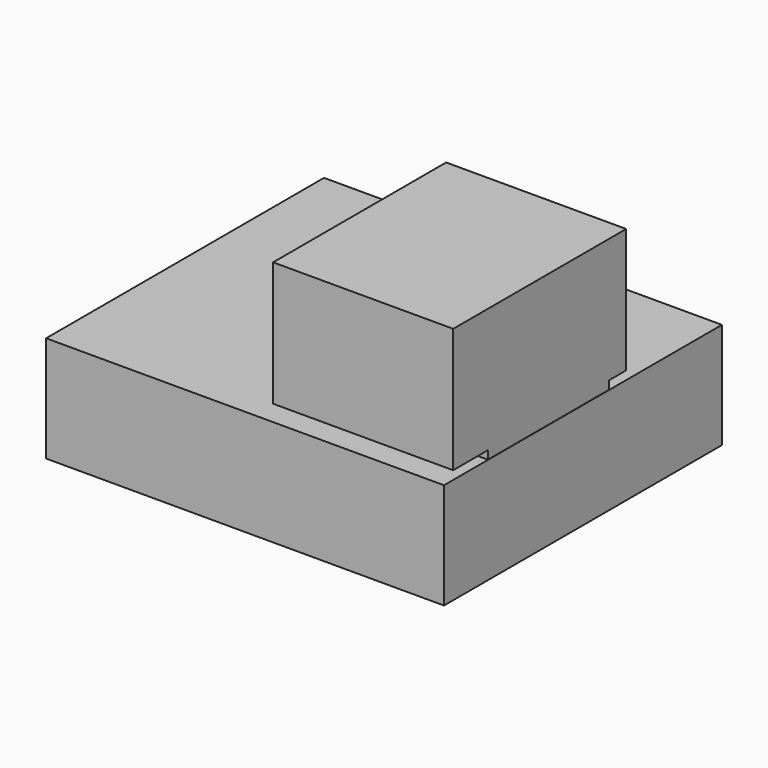
from build123d import *

# Parameters (mm, degrees)
F0_W     = 95.4314470291
F0_H     = 83.3230912685
F1_DEPTH = 25.4
F2_W     = 36.3040966913
F2_H     = 16.6404070333
F3_DEPTH = 43.18


with BuildPart() as f1:
    # F0 (on Top) → F1 (new body)
    with BuildSketch(Plane.XY):
        with Locations((-4.4675134122, -1.5228800476)):
            Rectangle(F0_W, F0_H)
    extrude(amount=F1_DEPTH)

    # F2 (on Right) → F3 (join)
    with BuildSketch(Plane.YZ):
        Polygon((-40.3462946415, 57.2510994971), (-40.3462946415, 27.3906495422), (-29.9596916884, 27.3906495422), (6.3444050029, 27.3906495422), (11.5222530439, 27.3906495422), (11.5222530439, 57.2510994971), align=None)
        with Locations((-11.8076433428, 19.0704460256)):
            Rectangle(F2_W, F2_H)
    extrude(amount=F3_DEPTH)


solid = f1.part
